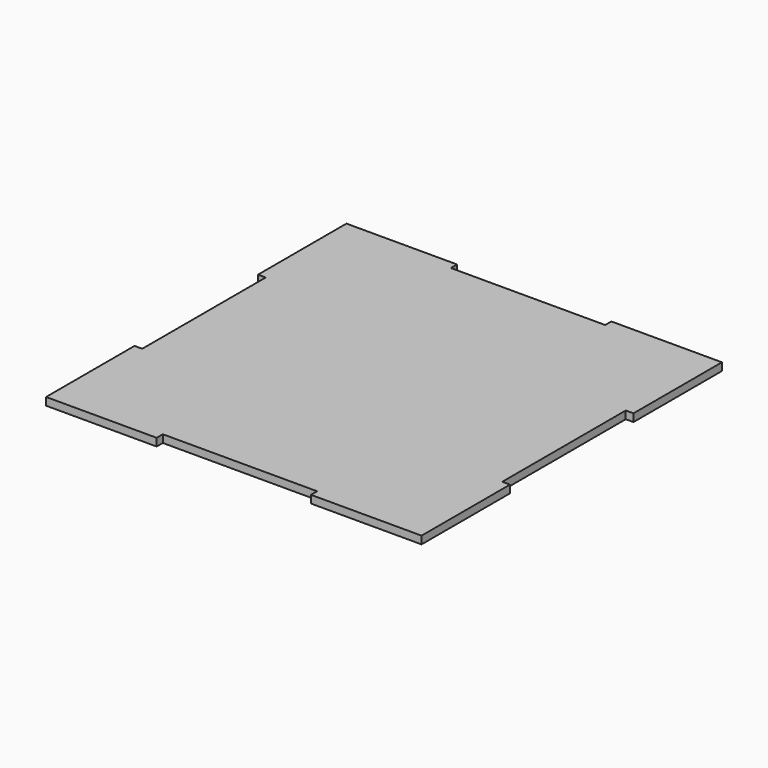
from build123d import *

# Parameters (mm, degrees)
F1_DEPTH = 3


with BuildPart() as f1:
    # F0 (on Top) → F1 (new body)
    with BuildSketch(Plane.XY):
        Polygon((30, -73), (73, -73), (73, -30), (70, -30), (70, 30), (73, 30), (73, 73), (30, 73), (30, 70), (-30, 70), (-30, 73), (-73, 73), (-73, 30), (-70, 30), (-70, -30), (-73, -30), (-73, -73), (-30, -73), (-30, -70), (30, -70), align=None)
    extrude(amount=F1_DEPTH)


solid = f1.part
